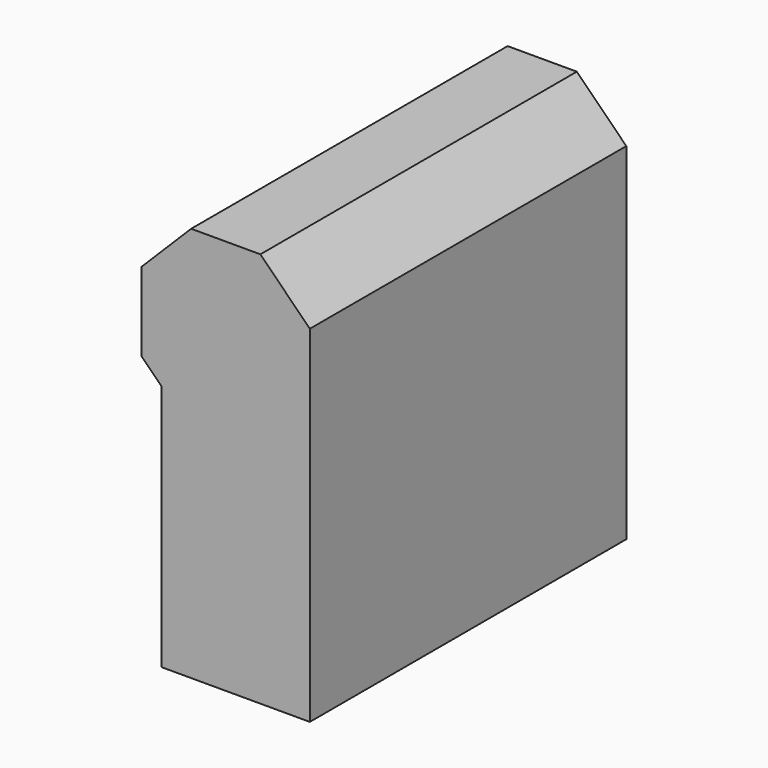
from build123d import *

# Parameters (mm, degrees)
BOX013_W           = 3
BOX013_H           = 8
BOX013_DEPTH       = 5
BOX015_W           = 3.4
BOX015_H           = 8
BOX015_DEPTH       = 3
CHAMFER009007_SIZE = 0.4
CHAMFER009009_SIZE = 1


with BuildPart() as cube013:
    # Box013 → Box013 (new body)
    with BuildSketch(Plane(origin=(-8.2, -4, 0), x_dir=(1, 0, 0), z_dir=(0, 0, 1))):
        with Locations((1.5, 4)):
            Rectangle(BOX013_W, BOX013_H)
    extrude(amount=BOX013_DEPTH)


with BuildPart() as fusion:
    # Box015 → Box015 (new body)
    with BuildSketch(Plane(origin=(-8.6, -4, 5), x_dir=(1, 0, 0), z_dir=(0, 0, 1))):
        with Locations((1.7, 4)):
            Rectangle(BOX015_W, BOX015_H)
    extrude(amount=BOX015_DEPTH)

    # Chamfer009007
    chamfer009007_edges = [fusion.edges().sort_by_distance(p)[0] for p in [
        (-8.6, 0, 5),
    ]]
    chamfer(chamfer009007_edges, length=CHAMFER009007_SIZE)

    # Chamfer009009
    chamfer009009_edges = [fusion.edges().sort_by_distance(p)[0] for p in [
        (-8.6, 0, 8),
        (-5.2, 0, 8),
    ]]
    chamfer(chamfer009009_edges, length=CHAMFER009009_SIZE)

    # Fusion: union Cube013
    add(cube013.part)


solid = fusion.part
